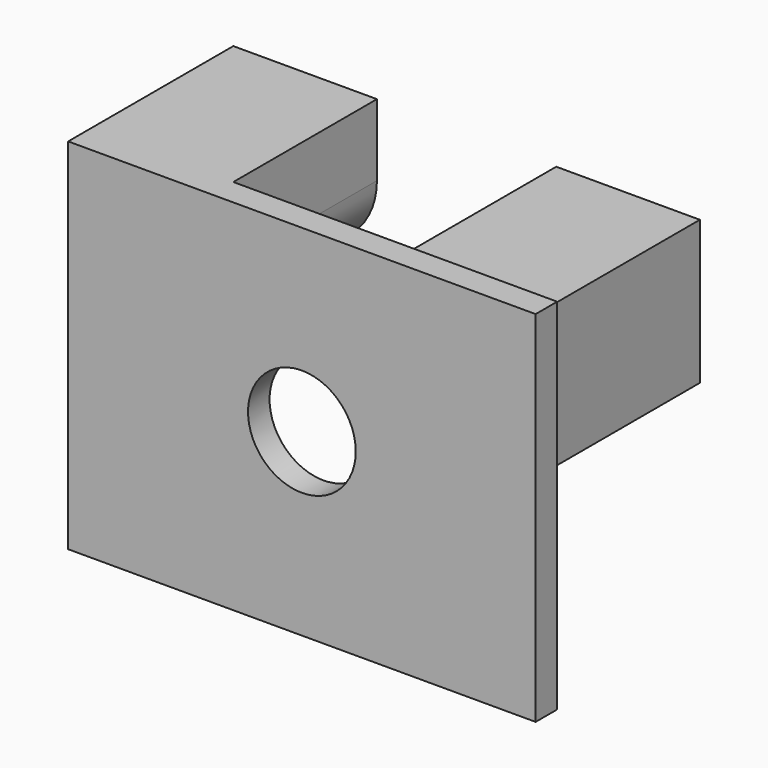
from build123d import *

# Parameters (mm, degrees)
F0_W      = 165.363372
F0_H      = 127
F1_DEPTH  = 9.525
F2_W      = 50.8
F2_H      = 50.800003
F3_DEPTH  = 63.5
F4_W      = 50.8
F4_H      = 50.8
F5_DEPTH  = 63.5
F6_R      = 25.4
F7_R      = 19.05
F8_DEPTH  = 63.501
F9_R      = 19.05
F10_DEPTH = 63.501
F11_R     = 19.05
F12_DEPTH = 9.526
F13_R     = 6.35
F14_DEPTH = 44.45


with BuildPart() as f1:
    # F0 (on Front) → F1 (new body)
    with BuildSketch(Plane.XZ):
        Rectangle(F0_W, F0_H)
    extrude(amount=F1_DEPTH)

    # F2 (on Front) → F3 (join)
    with BuildSketch(Plane.XZ):
        with Locations((56.94912, 37.684852)):
            Rectangle(F2_W, F2_H)
    extrude(amount=-F3_DEPTH)

    # F4 (on face) → F5 (join)
    with BuildSketch(Plane(origin=(0, 0, 0), x_dir=(-1, 0, 0), z_dir=(0, 1, 0))):
        with Locations((57.281686, 38.1)):
            Rectangle(F4_W, F4_H)
    extrude(amount=F5_DEPTH)

    # F6
    f6_edges = [f1.edges().sort_by_distance(p)[0] for p in [
        (31.54912, 31.75, 12.284851),
        (-31.881686, 31.75, 12.7),
    ]]
    fillet(f6_edges, radius=F6_R)

    # F7 (on Front) → F8 (cut, through all)
    with BuildSketch(Plane.XZ):
        Circle(F7_R)
    extrude(amount=-F8_DEPTH, mode=Mode.SUBTRACT)

    # F9 (on Front) → F10 (cut, through all)
    with BuildSketch(Plane.XZ):
        Circle(F9_R)
    extrude(amount=-F10_DEPTH, mode=Mode.SUBTRACT)

    # F11 (on Front) → F12 (cut, through all)
    with BuildSketch(Plane.XZ):
        Circle(F11_R)
    extrude(amount=F12_DEPTH, mode=Mode.SUBTRACT)

    # F13 (on face) → F14 (cut)
    with BuildSketch(Plane(origin=(0, 63.5, 0), x_dir=(-1, 0, 0), z_dir=(0, 1, 0))):
        with Locations((-56.94912, 37.684854)):
            Circle(F13_R)
        with Locations((57.281686, 38.1)):
            Circle(F13_R)
    extrude(amount=-F14_DEPTH, mode=Mode.SUBTRACT)


solid = f1.part
